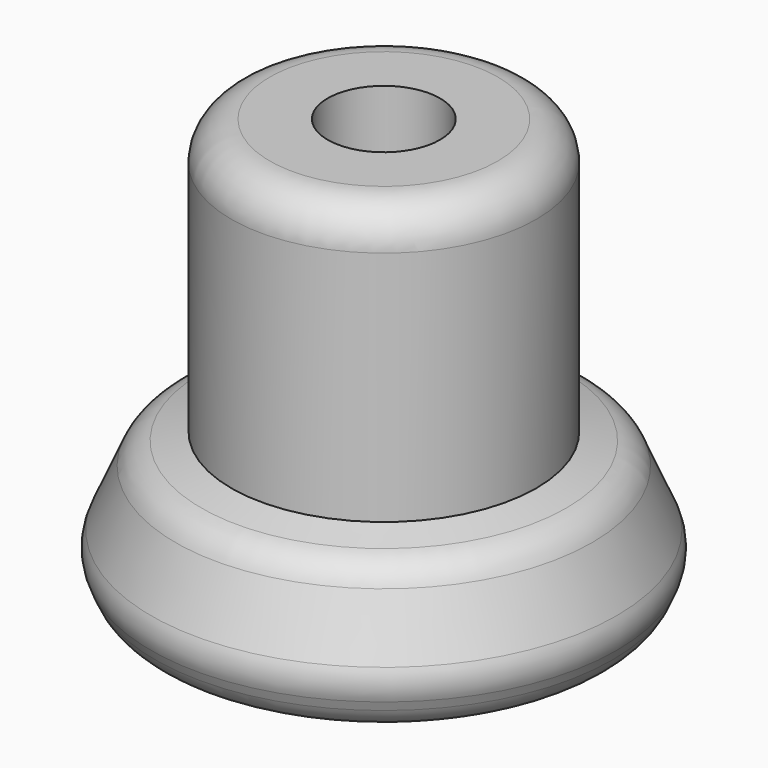
from build123d import *

# Parameters (mm, degrees)
F2_R     = 7.270103
F3_DEPTH = 55.001


with BuildPart() as f1:
    # F0 (on Front) → F1 (revolve)
    with BuildSketch(Plane.XZ):
        with BuildLine():
            Line((14.738567, 48.729044), (0, 48.729044))
            Line((0, 48.729044), (0, -6.270956))
            Line((0, -6.270956), (25, -6.270956))
            ThreePointArc((25, -6.270956), (27.765735, -5.436374), (29.608177, -3.21124))
            Line((29.608177, -3.21124), (30.131203, -1.969053))
            ThreePointArc((30.131203, -1.969053), (30.522956, -0.002314), (30.110414, 1.96017))
            Line((30.110414, 1.96017), (26.946491, 9.257603))
            ThreePointArc((26.946491, 9.257603), (25.609479, 11.068015), (23.613915, 12.10865))
            Line((23.613915, 12.10865), (19.738567, 13.11337))
            Line((19.738567, 13.11337), (19.738567, 43.729044))
            ThreePointArc((19.738567, 43.729044), (18.274101, 47.264578), (14.738567, 48.729044))
        make_face()
    revolve(axis=Axis((0, 0, 21.229044), (0, 0, 1)))

    # F2 (on face) → F3 (cut, through all)
    with BuildSketch(Plane.XY.offset(48.729044)):
        Circle(F2_R)
    extrude(amount=-F3_DEPTH, mode=Mode.SUBTRACT)


solid = f1.part
